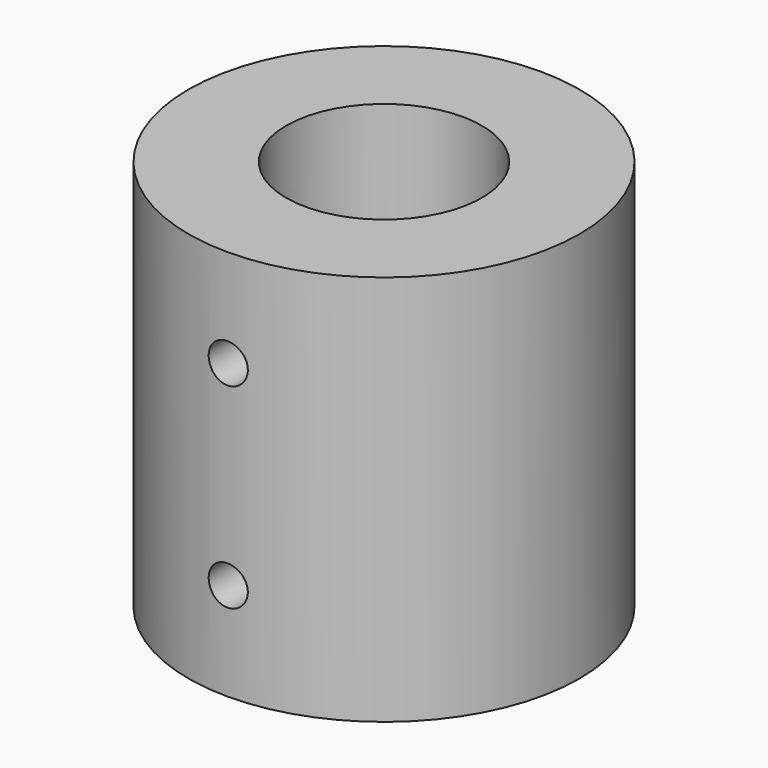
from build123d import *

# Parameters (mm, degrees)
F0_R     = 12.7
F1_DEPTH = 25.4
F3_D     = 12.7
F4_R     = 1.27
F5_DEPTH = 12.701


with BuildPart() as f1:
    # F0 (on Top) → F1 (new body)
    with BuildSketch(Plane.XY):
        Circle(F0_R)
    extrude(amount=F1_DEPTH)

    # F3 (through all)
    with Locations(Plane.XY.offset(25.4)):
        with Locations((0, 0)):
            Hole(F3_D / 2)

    # F4 (on Front) → F5 (cut, through all)
    with BuildSketch(Plane.XZ):
        with Locations((0, 6.35)):
            Circle(F4_R)
        with Locations((0, 19.05)):
            Circle(F4_R)
    extrude(amount=F5_DEPTH, mode=Mode.SUBTRACT)


solid = f1.part
